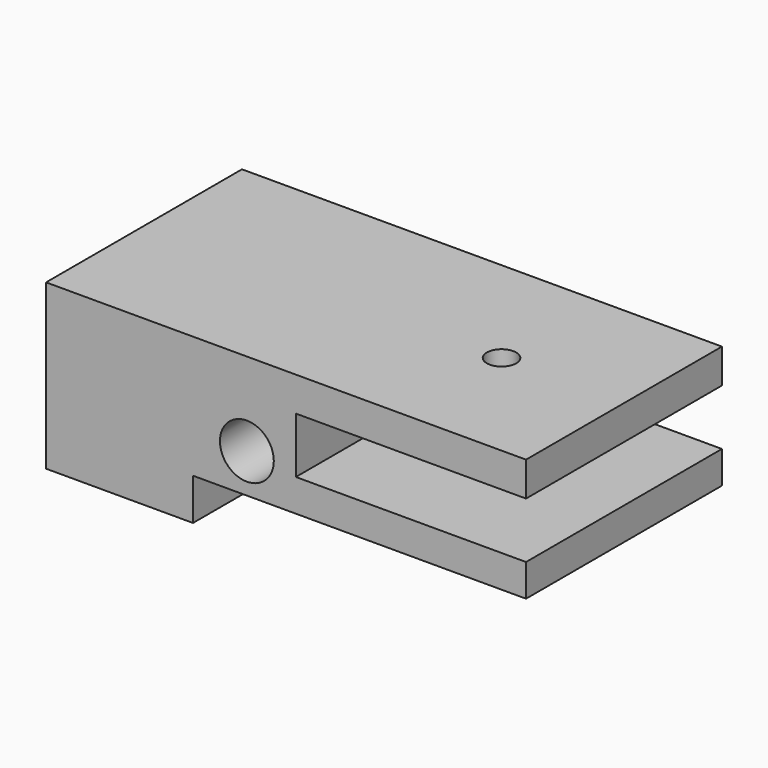
from build123d import *

# Parameters (mm, degrees)
F0_W      = 366
F0_H      = 33.5
F1_DEPTH  = 25
F2_W      = 50
F2_H      = 11.4
F3_DEPTH  = 47
F4_W      = 50
F4_H      = 11.4
F5_DEPTH  = 53
F6_W      = 68
F6_H      = 8.5
F7_DEPTH  = 100
F8_W      = 170
F8_H      = 21
F9_DEPTH  = 79.8
F10_R     = 11.5
F11_DEPTH = 56
F12_W     = 78.038405627
F12_H     = 72.1084345132
F13_DEPTH = 268.001
F14_R     = 3
F15_DEPTH = 50
F16_R     = 5.5
F17_DEPTH = 100


with BuildPart() as f1:
    # F0 (on Front) → F1 (new body, symmetric)
    with BuildSketch(Plane.XZ):
        with Locations((0, 16.75)):
            Rectangle(F0_W, F0_H)
    extrude(amount=F1_DEPTH, both=True)

    # F2 (on face) → F3 (cut)
    with BuildSketch(Plane.YZ.offset(183)):
        with Locations((0, 20.8)):
            Rectangle(F2_W, F2_H)
    extrude(amount=-F3_DEPTH, mode=Mode.SUBTRACT)

    # F4 (on face) → F5 (cut)
    with BuildSketch(Plane(origin=(-183, 0, 0), x_dir=(0, -1, 0), z_dir=(-1, 0, 0))):
        with Locations((0, 20.8)):
            Rectangle(F4_W, F4_H)
    extrude(amount=-F5_DEPTH, mode=Mode.SUBTRACT)

    # F6 (on face) → F7 (cut)
    with BuildSketch(Plane.XZ.offset(25)):
        with Locations((-149, 4.25)):
            Rectangle(F6_W, F6_H)
        with Locations((149, 4.25)):
            Rectangle(F6_W, F6_H)
    extrude(amount=-F7_DEPTH, mode=Mode.SUBTRACT)

    # F8 (on face) → F9 (cut)
    with BuildSketch(Plane.XZ.offset(25)):
        with Locations((0, 23)):
            Rectangle(F8_W, F8_H)
    extrude(amount=-F9_DEPTH, mode=Mode.SUBTRACT)

    # F10 (on face) → F11 (cut)
    with BuildSketch(Plane.XY.offset(12.5)):
        Circle(F10_R)
    extrude(amount=-F11_DEPTH, mode=Mode.SUBTRACT)

    # F12 (on face) → F13 (cut, through all)
    with BuildSketch(Plane(origin=(85, 0, 0), x_dir=(0, -1, 0), z_dir=(-1, 0, 0))):
        with Locations((0.1186002046, 15.0473779067)):
            Rectangle(F12_W, F12_H)
    extrude(amount=F13_DEPTH, mode=Mode.SUBTRACT)

    # F14 (on face) → F15 (cut)
    with BuildSketch(Plane.XY.offset(33.5)):
        with Locations((158, 0)):
            Circle(F14_R)
    extrude(amount=-F15_DEPTH, mode=Mode.SUBTRACT)

    # F16 (on face) → F17 (cut)
    with BuildSketch(Plane.XZ.offset(25)):
        with Locations((126, 16.5)):
            Circle(F16_R)
    extrude(amount=-F17_DEPTH, mode=Mode.SUBTRACT)


solid = f1.part
